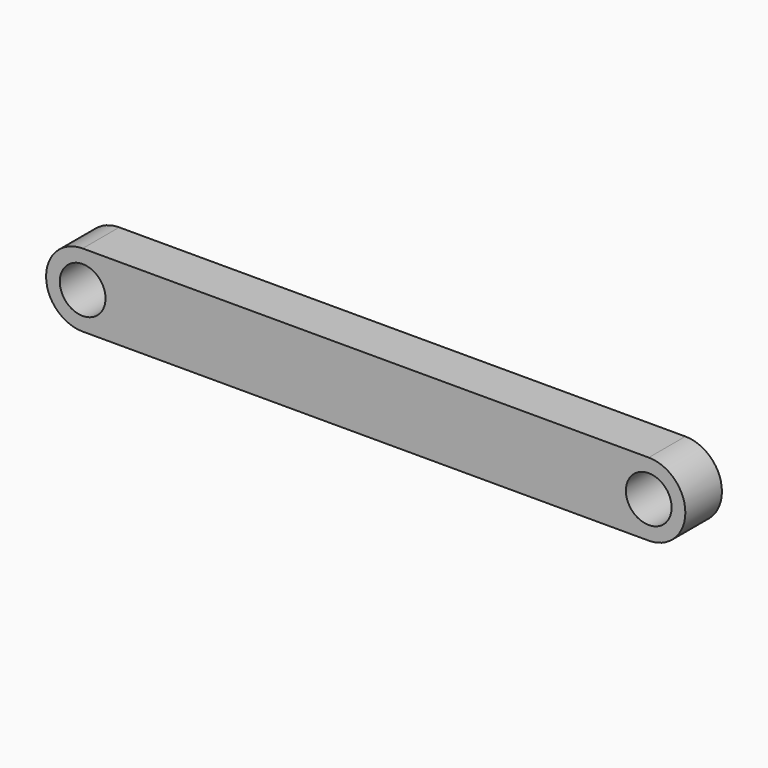
from build123d import *

# Parameters (mm, degrees)
F0_R     = 2.5
F1_DEPTH = 5


with BuildPart() as f1:
    # F0 (on Front) → F1 (new body)
    with BuildSketch(Plane.XZ):
        with BuildLine():
            Line((0, 4), (-30.95, 4))
            ThreePointArc((-30.95, 4), (-34.95, 0), (-30.95, -4))
            Line((-30.95, -4), (0, -4))
            Line((0, -4), (0, 4))
        make_face()
        with Locations((-30.95, 0)):
            Circle(F0_R, mode=Mode.SUBTRACT)
        with BuildLine():
            Line((30.95, 4), (0, 4))
            Line((0, 4), (0, -4))
            Line((0, -4), (30.95, -4))
            ThreePointArc((30.95, -4), (34.95, 0), (30.95, 4))
        make_face()
        with Locations((30.95, 0)):
            Circle(F0_R, mode=Mode.SUBTRACT)
    extrude(amount=F1_DEPTH)


solid = f1.part
